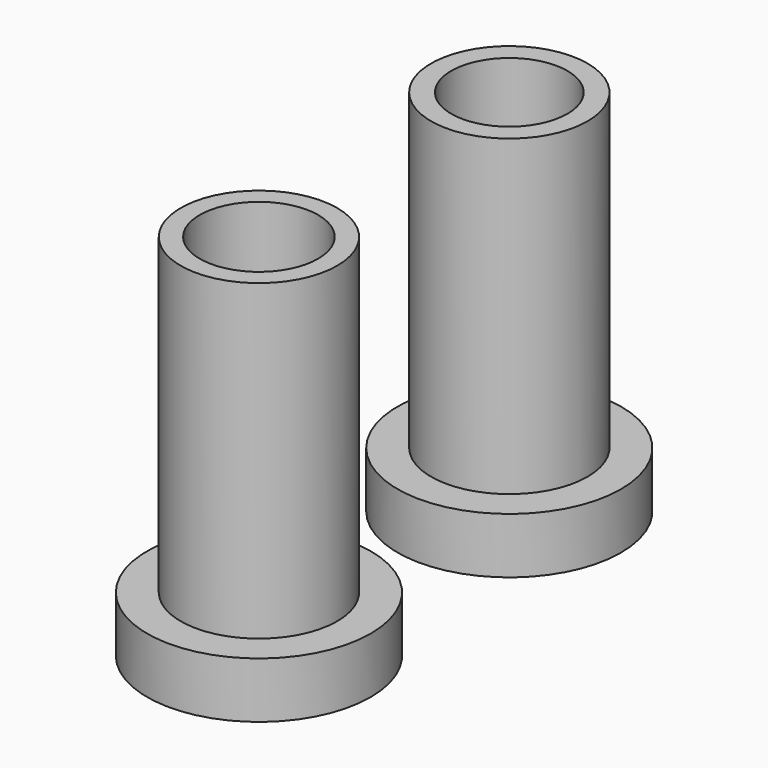
from build123d import *

# Parameters (mm, degrees)
CYLINDER118_R     = 1.5
CYLINDER118_DEPTH = 11
CYLINDER119_R     = 5.2
CYLINDER119_DEPTH = 46
CYLINDER116_R     = 1.5
CYLINDER116_DEPTH = 11
BOX020_W          = 1
BOX020_H          = 1
BOX020_DEPTH      = 1
CYLINDER117_R     = 10
CYLINDER117_DEPTH = 5
CYLINDER120_R     = 7
CYLINDER120_DEPTH = 33
CYLINDER114_R     = 1.5
CYLINDER114_DEPTH = 11
CYLINDER112_R     = 5.3
CYLINDER112_DEPTH = 46
CYLINDER113_R     = 1.5
CYLINDER113_DEPTH = 11
BOX019_W          = 1
BOX019_H          = 1
BOX019_DEPTH      = 1
CYLINDER111_R     = 10
CYLINDER111_DEPTH = 5
CYLINDER115_R     = 7
CYLINDER115_DEPTH = 33


with BuildPart() as obj1:
    # Cylinder118 → Cylinder118 (new body)
    with BuildSketch(Plane(origin=(99.69, 175.69, -10), x_dir=(1, 0, 0), z_dir=(0, 0, 1))):
        Circle(CYLINDER118_R)
    extrude(amount=CYLINDER118_DEPTH)


with BuildPart() as obj2:
    # Cylinder119 → Cylinder119 (new body)
    with BuildSketch(Plane(origin=(86.69, 175.69, -14), x_dir=(1, 0, 0), z_dir=(0, 0, 1))):
        Circle(CYLINDER119_R)
    extrude(amount=CYLINDER119_DEPTH)


with BuildPart() as fusion050:
    # Cylinder116 → Cylinder116 (new body)
    with BuildSketch(Plane(origin=(73.69, 175.69, -10), x_dir=(1, 0, 0), z_dir=(0, 0, 1))):
        Circle(CYLINDER116_R)
    extrude(amount=CYLINDER116_DEPTH)

    # Fusion050: union obj1, obj2
    add(obj1.part)
    add(obj2.part)


with BuildPart() as obj3:
    # Box020 → Box020 (new body)
    with BuildSketch(Plane(origin=(77.69, 174.69, -5), x_dir=(1, 0, 0), z_dir=(0, 0, 1))):
        with Locations((0.5, 0.5)):
            Rectangle(BOX020_W, BOX020_H)
    extrude(amount=BOX020_DEPTH)


with BuildPart() as obj4:
    # Cylinder117 → Cylinder117 (new body)
    with BuildSketch(Plane(origin=(86.69, 175.69, -5), x_dir=(1, 0, 0), z_dir=(0, 0, 1))):
        Circle(CYLINDER117_R)
    extrude(amount=CYLINDER117_DEPTH)


with BuildPart() as obj5:
    # Cylinder120 → Cylinder120 (new body)
    with BuildSketch(Plane(origin=(86.69, 175.69, -5), x_dir=(1, 0, 0), z_dir=(0, 0, 1))):
        Circle(CYLINDER120_R)
    extrude(amount=CYLINDER120_DEPTH)

    # Fusion049: union obj3, obj4
    add(obj3.part)
    add(obj4.part)

    # Cut015: cut Fusion050
    add(fusion050.part, mode=Mode.SUBTRACT)


with BuildPart() as obj5_1:
    # Cut015 placement: moved
    add(obj5.part.moved(Location((-86.69, -161.69, -28))))


with BuildPart() as obj6:
    # Cylinder114 → Cylinder114 (new body)
    with BuildSketch(Plane(origin=(99.69, 175.69, -10), x_dir=(1, 0, 0), z_dir=(0, 0, 1))):
        Circle(CYLINDER114_R)
    extrude(amount=CYLINDER114_DEPTH)


with BuildPart() as obj7:
    # Cylinder112 → Cylinder112 (new body)
    with BuildSketch(Plane(origin=(86.69, 175.69, -14), x_dir=(1, 0, 0), z_dir=(0, 0, 1))):
        Circle(CYLINDER112_R)
    extrude(amount=CYLINDER112_DEPTH)


with BuildPart() as fusion048:
    # Cylinder113 → Cylinder113 (new body)
    with BuildSketch(Plane(origin=(73.69, 175.69, -10), x_dir=(1, 0, 0), z_dir=(0, 0, 1))):
        Circle(CYLINDER113_R)
    extrude(amount=CYLINDER113_DEPTH)

    # Fusion048: union obj6, obj7
    add(obj6.part)
    add(obj7.part)


with BuildPart() as obj8:
    # Box019 → Box019 (new body)
    with BuildSketch(Plane(origin=(77.69, 174.69, -5), x_dir=(1, 0, 0), z_dir=(0, 0, 1))):
        with Locations((0.5, 0.5)):
            Rectangle(BOX019_W, BOX019_H)
    extrude(amount=BOX019_DEPTH)


with BuildPart() as obj9:
    # Cylinder111 → Cylinder111 (new body)
    with BuildSketch(Plane(origin=(86.69, 175.69, -5), x_dir=(1, 0, 0), z_dir=(0, 0, 1))):
        Circle(CYLINDER111_R)
    extrude(amount=CYLINDER111_DEPTH)


with BuildPart() as fusion:
    # Cylinder115 → Cylinder115 (new body)
    with BuildSketch(Plane(origin=(86.69, 175.69, -5), x_dir=(1, 0, 0), z_dir=(0, 0, 1))):
        Circle(CYLINDER115_R)
    extrude(amount=CYLINDER115_DEPTH)

    # Fusion047: union obj8, obj9
    add(obj8.part)
    add(obj9.part)

    # Cut014: cut Fusion048
    add(fusion048.part, mode=Mode.SUBTRACT)


with BuildPart() as fusion_1:
    # Cut014 placement: moved
    add(fusion.part.moved(Location((-86.69, -189.69, -28))))

    # Fusion: union obj5
    add(obj5_1.part)


solid = fusion_1.part
